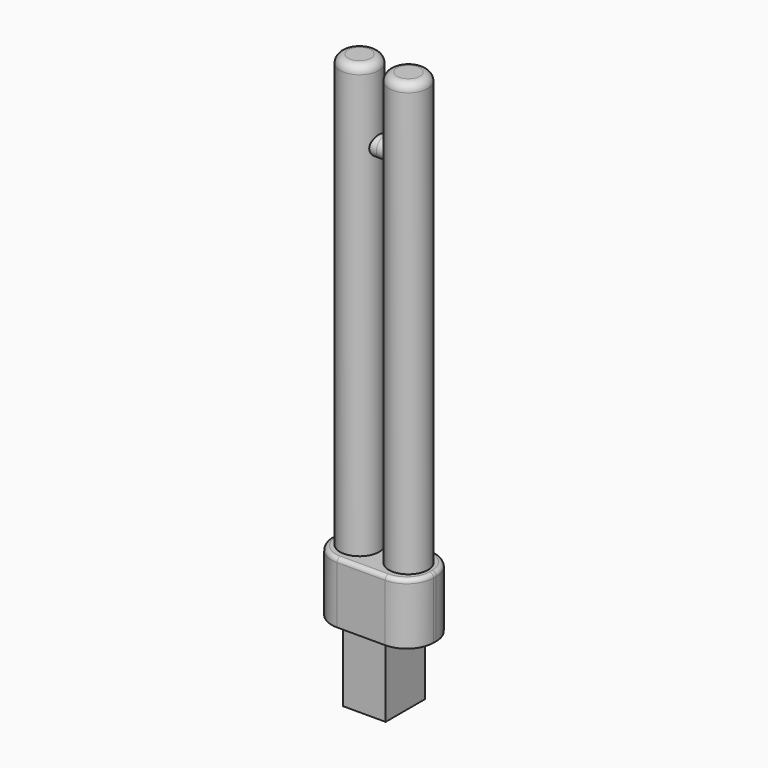
from build123d import *

# Parameters (mm, degrees)
F0_R          = 6.096
F1_DEPTH      = 134.62
F2_R          = 2.921
F3_DEPTH      = 5.08
F3_DEPTH_BACK = 5.08
F4_R          = 2.54
F6_DEPTH      = 19.05
F7_R          = 1.27
F8_W          = 13.208
F8_H          = 15.24
F9_DEPTH      = 21.844


with BuildPart() as f1:
    # F0 (on Top) → F1 (new body)
    with BuildSketch(Plane.XY):
        with Locations((7.62, 0)):
            Circle(F0_R)
        with Locations((-7.62, 0)):
            Circle(F0_R)
    extrude(amount=F1_DEPTH)

    # F2 (on Right) → F3 (join, two sides)
    with BuildSketch(Plane.YZ) as f3_sk:
        with Locations((0, 111.602642)):
            Circle(F2_R)
    extrude(amount=F3_DEPTH)
    extrude(f3_sk.sketch, amount=-F3_DEPTH_BACK)

    # F4
    f4_edges = [f1.edges().sort_by_distance(p)[0] for p in [
        (-13.716, 0, 134.62),
        (1.524, 0, 134.62),
    ]]
    fillet(f4_edges, radius=F4_R)

    # F5 (on Top) → F6 (join)
    with BuildSketch(Plane.XY):
        with BuildLine():
            ThreePointArc((-15.875, -0.508), (-13.419969, -6.434969), (-7.493, -8.89))
            Line((-7.493, -8.89), (7.493, -8.89))
            ThreePointArc((7.493, -8.89), (13.419969, -6.434969), (15.875, -0.508))
            Line((15.875, -0.508), (15.875, 0.508))
            ThreePointArc((15.875, 0.508), (13.419969, 6.434969), (7.493, 8.89))
            Line((7.493, 8.89), (-7.493, 8.89))
            ThreePointArc((-7.493, 8.89), (-13.419969, 6.434969), (-15.875, 0.508))
            Line((-15.875, 0.508), (-15.875, -0.508))
        make_face()
    extrude(amount=-F6_DEPTH)

    # F7
    f7_edges = [f1.edges().sort_by_distance(p)[0] for p in [
        (0, -8.89, 0),
    ]]
    fillet(f7_edges, radius=F7_R)

    # F8 (on face) → F9 (join)
    with BuildSketch(Plane(origin=(0, 0, -19.05), x_dir=(1, 0, 0), z_dir=(0, 0, -1))):
        Rectangle(F8_W, F8_H)
    extrude(amount=F9_DEPTH)


solid = f1.part
